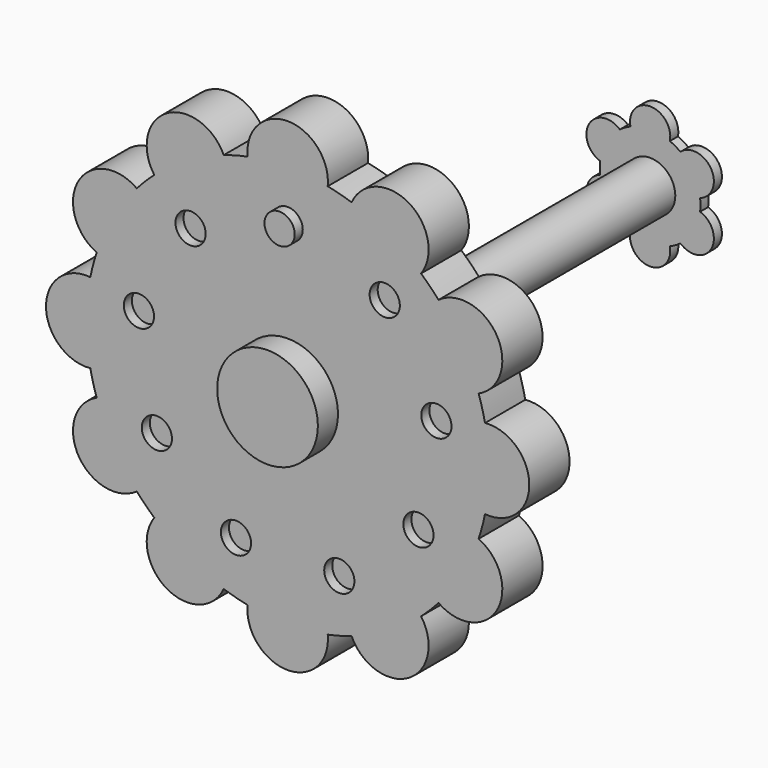
from build123d import *

# Parameters (mm, degrees)
F0_R      = 5
F1_DEPTH  = 5
F2_R      = 1.5
F3_DEPTH  = 1
F4_COUNT  = 9
F6_R      = 1.5
F7_DEPTH  = 2
F8_R      = 5
F9_DEPTH  = 7.5
F10_R     = 2.5
F11_DEPTH = 40
F13_DEPTH = 1


with BuildPart() as f1:
    # F0 (on Front) → F1 (new body)
    with BuildSketch(Plane.XZ):
        with BuildLine():
            ThreePointArc((19.6, -3.9799497484), (19.8997487421, -2), (20, 0))
            ThreePointArc((20, 0), (19.8997487421, 2), (19.6, 3.9799497484))
            ThreePointArc((19.6, 3.9799497484), (19.3185165258, 5.1763809021), (18.9640727884, 6.3532624121))
            ThreePointArc((18.9640727884, 6.3532624121), (17.3205080757, 10), (14.98412304, 13.2467375879))
            ThreePointArc((14.98412304, 13.2467375879), (14.1421356237, 14.1421356237), (13.2467375879, 14.98412304))
            ThreePointArc((13.2467375879, 14.98412304), (10, 17.3205080757), (6.3532624121, 18.9640727884))
            ThreePointArc((6.3532624121, 18.9640727884), (5.1763809021, 19.3185165258), (3.9799497484, 19.6))
            ThreePointArc((3.9799497484, 19.6), (0, 20), (-3.9799497484, 19.6))
            ThreePointArc((-3.9799497484, 19.6), (-5.1763809021, 19.3185165258), (-6.3532624121, 18.9640727884))
            ThreePointArc((-6.3532624121, 18.9640727884), (-10, 17.3205080757), (-13.2467375879, 14.98412304))
            ThreePointArc((-13.2467375879, 14.98412304), (-14.1421356237, 14.1421356237), (-14.98412304, 13.2467375879))
            ThreePointArc((-14.98412304, 13.2467375879), (-17.3205080757, 10), (-18.9640727884, 6.3532624121))
            ThreePointArc((-18.9640727884, 6.3532624121), (-19.3185165258, 5.1763809021), (-19.6, 3.9799497484))
            ThreePointArc((-19.6, 3.9799497484), (-20, 0), (-19.6, -3.9799497484))
            ThreePointArc((-19.6, -3.9799497484), (-19.3185165258, -5.1763809021), (-18.9640727884, -6.3532624121))
            ThreePointArc((-18.9640727884, -6.3532624121), (-17.3205080757, -10), (-14.98412304, -13.2467375879))
            ThreePointArc((-14.98412304, -13.2467375879), (-14.1421356237, -14.1421356237), (-13.2467375879, -14.98412304))
            ThreePointArc((-13.2467375879, -14.98412304), (-10, -17.3205080757), (-6.3532624121, -18.9640727884))
            ThreePointArc((-6.3532624121, -18.9640727884), (-5.1763809021, -19.3185165258), (-3.9799497484, -19.6))
            ThreePointArc((-3.9799497484, -19.6), (0, -20), (3.9799497484, -19.6))
            ThreePointArc((3.9799497484, -19.6), (5.1763809021, -19.3185165258), (6.3532624121, -18.9640727884))
            ThreePointArc((6.3532624121, -18.9640727884), (10, -17.3205080757), (13.2467375879, -14.98412304))
            ThreePointArc((13.2467375879, -14.98412304), (14.1421356237, -14.1421356237), (14.98412304, -13.2467375879))
            ThreePointArc((14.98412304, -13.2467375879), (17.3205080757, -10), (18.9640727884, -6.3532624121))
            ThreePointArc((18.9640727884, -6.3532624121), (19.3185165258, -5.1763809021), (19.6, -3.9799497484))
        make_face()
        Circle(F0_R, mode=Mode.SUBTRACT)
        with BuildLine():
            ThreePointArc((19.6, 3.9799497484), (19.8997487421, 2), (20, 0))
            ThreePointArc((20, 0), (19.8997487421, -2), (19.6, -3.9799497484))
            ThreePointArc((19.6, -3.9799497484), (24, 0), (19.6, 3.9799497484))
        make_face()
        with BuildLine():
            ThreePointArc((14.98412304, 13.2467375879), (17.3205080757, 10), (18.9640727884, 6.3532624121))
            ThreePointArc((18.9640727884, 6.3532624121), (20.7846096908, 12), (14.98412304, 13.2467375879))
        make_face()
        with BuildLine():
            ThreePointArc((14.98412304, -13.2467375879), (20.7846096908, -12), (18.9640727884, -6.3532624121))
            ThreePointArc((18.9640727884, -6.3532624121), (17.3205080757, -10), (14.98412304, -13.2467375879))
        make_face()
        with BuildLine():
            ThreePointArc((6.3532624121, 18.9640727884), (10, 17.3205080757), (13.2467375879, 14.98412304))
            ThreePointArc((13.2467375879, 14.98412304), (12, 20.7846096908), (6.3532624121, 18.9640727884))
        make_face()
        with BuildLine():
            ThreePointArc((6.3532624121, -18.9640727884), (12, -20.7846096908), (13.2467375879, -14.98412304))
            ThreePointArc((13.2467375879, -14.98412304), (10, -17.3205080757), (6.3532624121, -18.9640727884))
        make_face()
        with BuildLine():
            ThreePointArc((-3.9799497484, 19.6), (0, 20), (3.9799497484, 19.6))
            ThreePointArc((3.9799497484, 19.6), (0, 24), (-3.9799497484, 19.6))
        make_face()
        with BuildLine():
            ThreePointArc((-3.9799497484, -19.6), (0, -24), (3.9799497484, -19.6))
            ThreePointArc((3.9799497484, -19.6), (0, -20), (-3.9799497484, -19.6))
        make_face()
        with BuildLine():
            ThreePointArc((-13.2467375879, 14.98412304), (-10, 17.3205080757), (-6.3532624121, 18.9640727884))
            ThreePointArc((-6.3532624121, 18.9640727884), (-12, 20.7846096908), (-13.2467375879, 14.98412304))
        make_face()
        with BuildLine():
            ThreePointArc((-13.2467375879, -14.98412304), (-12, -20.7846096908), (-6.3532624121, -18.9640727884))
            ThreePointArc((-6.3532624121, -18.9640727884), (-10, -17.3205080757), (-13.2467375879, -14.98412304))
        make_face()
        with BuildLine():
            ThreePointArc((-18.9640727884, 6.3532624121), (-17.3205080757, 10), (-14.98412304, 13.2467375879))
            ThreePointArc((-14.98412304, 13.2467375879), (-20.7846096908, 12), (-18.9640727884, 6.3532624121))
        make_face()
        with BuildLine():
            ThreePointArc((-18.9640727884, -6.3532624121), (-20.7846096908, -12), (-14.98412304, -13.2467375879))
            ThreePointArc((-14.98412304, -13.2467375879), (-17.3205080757, -10), (-18.9640727884, -6.3532624121))
        make_face()
        with BuildLine():
            ThreePointArc((-19.6, -3.9799497484), (-20, 0), (-19.6, 3.9799497484))
            ThreePointArc((-19.6, 3.9799497484), (-24, 0), (-19.6, -3.9799497484))
        make_face()
    extrude(amount=F1_DEPTH)


with BuildPart() as f3:
    # F2 (on face) → F3 (new body)
    with BuildSketch(Plane.XZ.offset(5)):
        with Locations((0, 15)):
            Circle(F2_R)
    extrude(amount=-F3_DEPTH)


with BuildPart() as f4_1:
    # F4: instance of F3
    add(f3.part.rotate(Axis((0, -5, 0), (0, -1, 0)), 1 * 360 / F4_COUNT))


with BuildPart() as f4_2:
    # F4: instance of F3
    add(f3.part.rotate(Axis((0, -5, 0), (0, -1, 0)), 2 * 360 / F4_COUNT))


with BuildPart() as f4_3:
    # F4: instance of F3
    add(f3.part.rotate(Axis((0, -5, 0), (0, -1, 0)), 3 * 360 / F4_COUNT))


with BuildPart() as f4_4:
    # F4: instance of F3
    add(f3.part.rotate(Axis((0, -5, 0), (0, -1, 0)), 4 * 360 / F4_COUNT))


with BuildPart() as f4_5:
    # F4: instance of F3
    add(f3.part.rotate(Axis((0, -5, 0), (0, -1, 0)), 5 * 360 / F4_COUNT))


with BuildPart() as f4_6:
    # F4: instance of F3
    add(f3.part.rotate(Axis((0, -5, 0), (0, -1, 0)), 6 * 360 / F4_COUNT))


with BuildPart() as f4_7:
    # F4: instance of F3
    add(f3.part.rotate(Axis((0, -5, 0), (0, -1, 0)), 7 * 360 / F4_COUNT))


with BuildPart() as f4_8:
    # F4: instance of F3
    add(f3.part.rotate(Axis((0, -5, 0), (0, -1, 0)), 8 * 360 / F4_COUNT))


with BuildPart() as f1_1:
    add(f1.part)

    # F5: cut F3, F4_1, F4_2, F4_3, F4_4, F4_5, F4_6, F4_7, F4_8
    add(f3.part, mode=Mode.SUBTRACT)
    add(f4_1.part, mode=Mode.SUBTRACT)
    add(f4_2.part, mode=Mode.SUBTRACT)
    add(f4_3.part, mode=Mode.SUBTRACT)
    add(f4_4.part, mode=Mode.SUBTRACT)
    add(f4_5.part, mode=Mode.SUBTRACT)
    add(f4_6.part, mode=Mode.SUBTRACT)
    add(f4_7.part, mode=Mode.SUBTRACT)
    add(f4_8.part, mode=Mode.SUBTRACT)


with BuildPart() as f7:
    # F6 (on face) → F7 (new body)
    with BuildSketch(Plane.XZ.offset(4)):
        with Locations((0, 15)):
            Circle(F6_R)
    extrude(amount=F7_DEPTH)


with BuildPart() as f9:
    # F8 (on Front) → F9 (new body, symmetric)
    with BuildSketch(Plane.XZ):
        Circle(F8_R)
    extrude(amount=F9_DEPTH, both=True)


with BuildPart() as f11:
    # F10 (on Front) → F11 (new body)
    with BuildSketch(Plane.XZ):
        Circle(F10_R)
    extrude(amount=-F11_DEPTH)

    # F12 (on face) → F13 (join)
    with BuildSketch(Plane(origin=(0, 40, 0), x_dir=(-1, 0, 0), z_dir=(0, 1, 0))):
        with BuildLine():
            ThreePointArc((4.9635127545, -0.6029437252), (4.9908698527, -0.3020233661), (5, 0))
            ThreePointArc((5, 0), (4.9908698527, 0.3020233661), (4.9635127545, 0.6029437252))
            ThreePointArc((4.9635127545, 0.6029437252), (4.3301270189, 2.5), (3.0039209603, 3.9970562748))
            ThreePointArc((3.0039209603, 3.9970562748), (2.5, 4.3301270189), (1.9595917942, 4.6))
            ThreePointArc((1.9595917942, 4.6), (0, 5), (-1.9595917942, 4.6))
            ThreePointArc((-1.9595917942, 4.6), (-2.5, 4.3301270189), (-3.0039209603, 3.9970562748))
            ThreePointArc((-3.0039209603, 3.9970562748), (-4.3301270189, 2.5), (-4.9635127545, 0.6029437252))
            ThreePointArc((-4.9635127545, 0.6029437252), (-5, 0), (-4.9635127545, -0.6029437252))
            ThreePointArc((-4.9635127545, -0.6029437252), (-4.3301270189, -2.5), (-3.0039209603, -3.9970562748))
            ThreePointArc((-3.0039209603, -3.9970562748), (-2.5, -4.3301270189), (-1.9595917942, -4.6))
            ThreePointArc((-1.9595917942, -4.6), (0, -5), (1.9595917942, -4.6))
            ThreePointArc((1.9595917942, -4.6), (2.5, -4.3301270189), (3.0039209603, -3.9970562748))
            ThreePointArc((3.0039209603, -3.9970562748), (4.3301270189, -2.5), (4.9635127545, -0.6029437252))
        make_face()
        with BuildLine():
            ThreePointArc((3.0039209603, 3.9970562748), (4.3301270189, 2.5), (4.9635127545, 0.6029437252))
            ThreePointArc((4.9635127545, 0.6029437252), (6.0621778265, 3.5), (3.0039209603, 3.9970562748))
        make_face()
        with BuildLine():
            ThreePointArc((3.0039209603, -3.9970562748), (6.0621778265, -3.5), (4.9635127545, -0.6029437252))
            ThreePointArc((4.9635127545, -0.6029437252), (4.3301270189, -2.5), (3.0039209603, -3.9970562748))
        make_face()
        with BuildLine():
            ThreePointArc((-1.9595917942, 4.6), (0, 5), (1.9595917942, 4.6))
            ThreePointArc((1.9595917942, 4.6), (0, 7), (-1.9595917942, 4.6))
        make_face()
        with BuildLine():
            ThreePointArc((-1.9595917942, -4.6), (0, -7), (1.9595917942, -4.6))
            ThreePointArc((1.9595917942, -4.6), (0, -5), (-1.9595917942, -4.6))
        make_face()
        with BuildLine():
            ThreePointArc((-4.9635127545, 0.6029437252), (-4.3301270189, 2.5), (-3.0039209603, 3.9970562748))
            ThreePointArc((-3.0039209603, 3.9970562748), (-6.0621778265, 3.5), (-4.9635127545, 0.6029437252))
        make_face()
        with BuildLine():
            ThreePointArc((-4.9635127545, -0.6029437252), (-6.0621778265, -3.5), (-3.0039209603, -3.9970562748))
            ThreePointArc((-3.0039209603, -3.9970562748), (-4.3301270189, -2.5), (-4.9635127545, -0.6029437252))
        make_face()
    extrude(amount=F13_DEPTH)


with BuildPart() as f9_1:
    add(f9.part)

    # F14: cut F11
    add(f11.part, mode=Mode.SUBTRACT)


solid = Compound([f1_1.part, f7.part, f11.part, f9_1.part])
